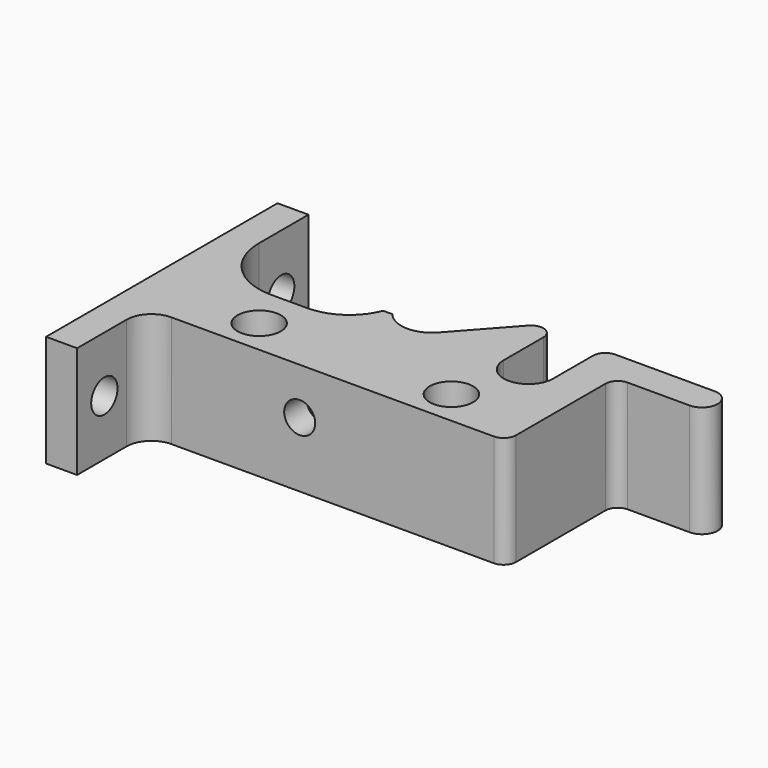
from build123d import *

# Parameters (mm, degrees)
SKETCH011_R     = 1.5
PAD008_DEPTH    = 18
SKETCH012_R     = 12
POCKET_DEPTH    = 3
SKETCH015_R     = 1.2
POCKET007_DEPTH = 32.651
SKETCH016_R     = 2.5
POCKET008_DEPTH = 4.5
SKETCH022_R     = 3.5
POCKET009_DEPTH = 7
SKETCH023_R     = 2.65
POCKET010_DEPTH = 5.001


with BuildPart() as part:
    # Sketch011 → Pad008 (new body)
    with BuildSketch(Plane.XY.offset(45)):
        with BuildLine():
            ThreePointArc((7.8, 12.65), (12.595297, 14.1318), (15.718671, 18.060558))
            Line((15.718671, 18.060558), (17.218671, 18.060558))
            ThreePointArc((17.218671, 18.060558), (20.988406, 16.152612), (24.873527, 17.813033))
            Line((24.873527, 17.813033), (32.510589, 26.334787))
            ThreePointArc((36, 25), (34.714555, 26.867996), (32.510589, 26.334787))
            Line((36, 25), (36, 17))
            ThreePointArc((36, 17), (40, 13), (44, 17))
            Line((44, 17), (44, 25))
            ThreePointArc((45.999998, 27), (44.585786, 26.414213), (44, 25))
            Line((45.999998, 27), (62, 27))
            ThreePointArc((62, 22), (64.5, 24.5), (62, 27))
            Line((62, 22), (52, 22))
            ThreePointArc((52, 22), (50.585786, 21.414213), (50, 20))
            Line((50, 20), (50, 2))
            ThreePointArc((48, 0), (49.414214, 0.585787), (50, 2))
            Line((-4, 0), (48, 0))
            ThreePointArc((-4, 0), (-6.828417, -1.171563), (-8, -3.999973))
            Line((-8, -3.999973), (-8, -13.999973))
            Line((-13, -13.999973), (-8, -13.999973))
            Line((-13, 32.65), (-13, -13.999973))
            Line((-8, 32.65), (-13, 32.65))
            Line((-8, 22.65), (-8, 32.65))
            ThreePointArc((-8, 22.65), (-5.071068, 15.578932), (2, 12.65))
            Line((7.8, 12.65), (2, 12.65))
        make_face()
        with Locations((36.65, 5.65)):
            Circle(SKETCH011_R, mode=Mode.SUBTRACT)
        with Locations((5.65, 5.65)):
            Circle(SKETCH011_R, mode=Mode.SUBTRACT)
    extrude(amount=PAD008_DEPTH)

    # Sketch012 → Pocket (cut)
    with BuildSketch(Plane(origin=(0, 0, 45), x_dir=(1, 0, 0), z_dir=(0, 0, -1))):
        with Locations((21.15, -21.15)):
            Circle(SKETCH012_R)
    extrude(amount=-POCKET_DEPTH, mode=Mode.SUBTRACT)

    # Sketch015 → Pocket007 (cut, through all)
    with BuildSketch(Plane(origin=(0, 0, 45), x_dir=(1, 0, 0), z_dir=(0, -1, 0))):
        with Locations((16.7, 10.5)):
            Circle(SKETCH015_R)
    extrude(amount=-POCKET007_DEPTH, mode=Mode.SUBTRACT)

    # Sketch016 → Pocket008 (cut)
    with BuildSketch(Plane(origin=(0, 0, 45), x_dir=(1, 0, 0), z_dir=(0, -1, 0))):
        with Locations((16.7, 10.5)):
            Circle(SKETCH016_R)
    extrude(amount=-POCKET008_DEPTH, mode=Mode.SUBTRACT)

    # Sketch022 → Pocket009 (cut)
    with BuildSketch(Plane.XY.offset(63)):
        with Locations((5.65, 5.65)):
            Circle(SKETCH022_R)
        with Locations((36.65, 5.65)):
            Circle(SKETCH022_R)
    extrude(amount=-POCKET009_DEPTH, mode=Mode.SUBTRACT)

    # Sketch023 → Pocket010 (cut, through all)
    with BuildSketch(Plane(origin=(-8, 0, 45), x_dir=(0, 1, 0), z_dir=(1, 0, 0))):
        with Locations((-8.499973, 9)):
            Circle(SKETCH023_R)
        with Locations((27.15, 9)):
            Circle(SKETCH023_R)
    extrude(amount=-POCKET010_DEPTH, mode=Mode.SUBTRACT)


solid = part.part
